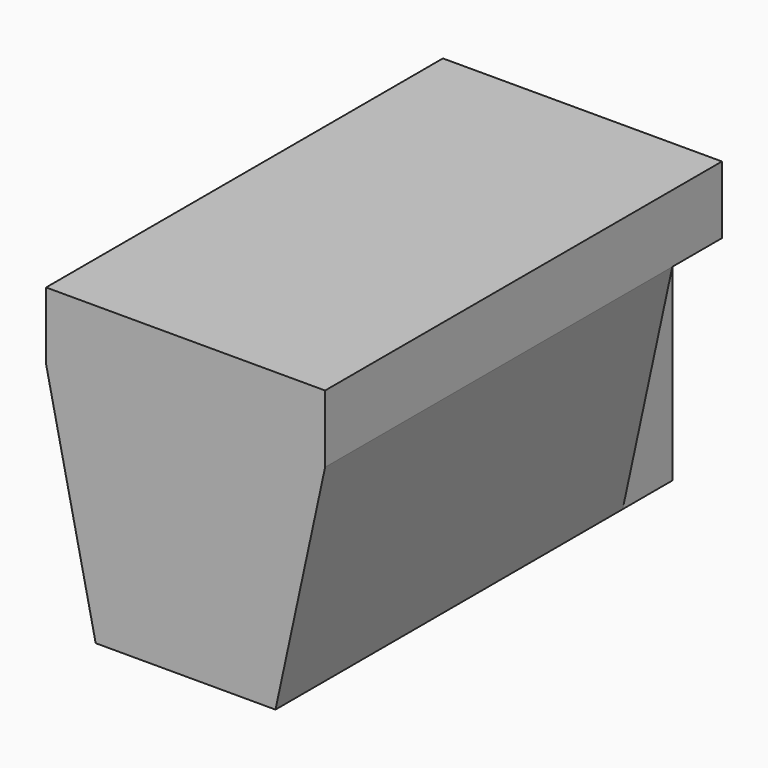
from build123d import *

# Parameters (mm, degrees)
F1_DEPTH = 406.4
F3_DEPTH = 50.8


with BuildPart() as f1:
    # F0 (on Front) → F1 (new body)
    with BuildSketch(Plane.XZ):
        Polygon((113.694089, 107.393148), (-114.905911, 107.393148), (-114.905911, 52.072754), (-74.265911, -135.98619), (73.054089, -135.98619), (113.694089, 52.072754), align=None)
    extrude(amount=F1_DEPTH)

    # F2 (on face) → F3 (cut)
    with BuildSketch(Plane(origin=(0, 0, 0), x_dir=(-1, 0, 0), z_dir=(0, 1, 0))):
        Polygon((-73.054089, 52.072754), (-113.694089, 52.072754), (-73.054089, -135.98619), align=None)
    extrude(amount=-F3_DEPTH, mode=Mode.SUBTRACT)


solid = f1.part
